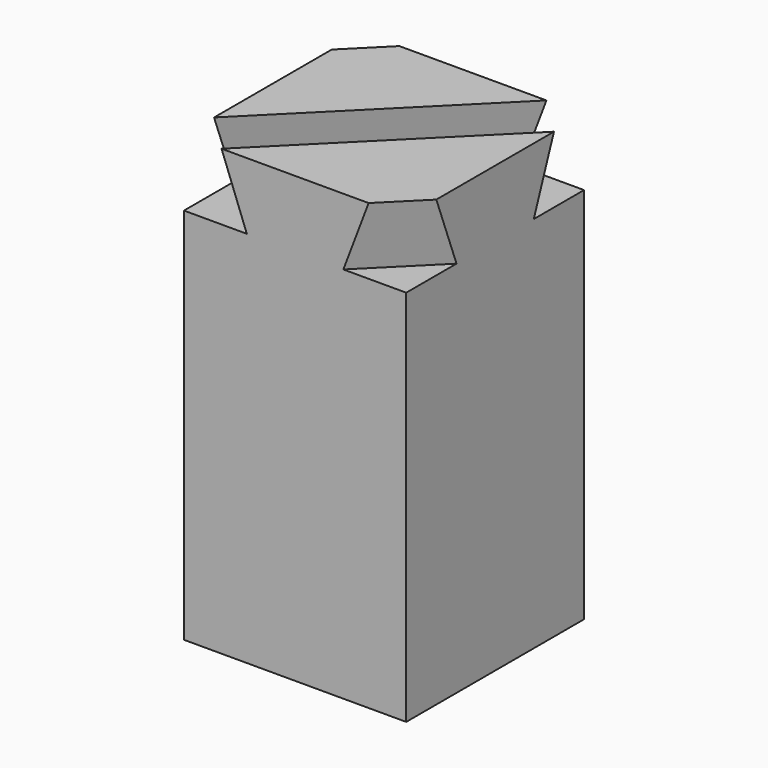
from build123d import *

# Parameters (mm, degrees)
F0_W     = 50
F0_H     = 50
F1_DEPTH = 100
F4_DEPTH = 50


with BuildPart() as f1:
    # F0 (on Top) → F1 (new body)
    with BuildSketch(Plane.XY):
        Rectangle(F0_W, F0_H)
    extrude(amount=F1_DEPTH)

    # F3 (on 3pt) → F4 (cut, symmetric)
    with BuildSketch(Plane(origin=(0, 0, 0), x_dir=(-0.7071067812, 0.7071067812, 0), z_dir=(0.7071067812, 0.7071067812, 0))):
        Polygon((10, 85), (5.9807621135, 100), (-5.9807621135, 100), (-10, 85), align=None)
        Polygon((45.3553390593, 85), (41.3361011729, 100), (29.3745769458, 100), (25.3553390593, 85), align=None)
        Polygon((-25.3553390593, 85), (-29.3745769458, 100), (-41.3361011729, 100), (-45.3553390593, 85), align=None)
    extrude(amount=F4_DEPTH, both=True, mode=Mode.SUBTRACT)


solid = f1.part
